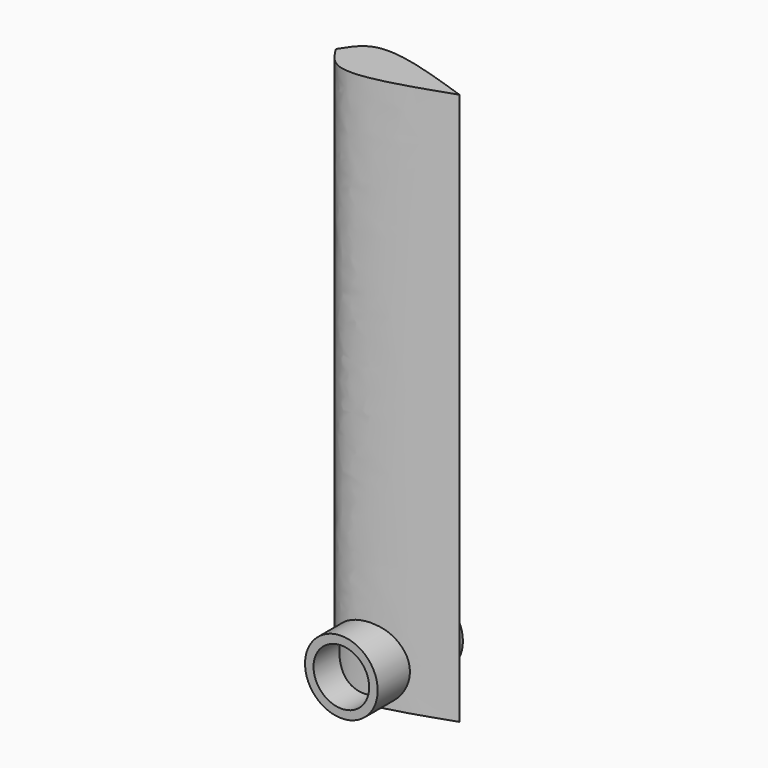
from build123d import *

# Parameters (mm, degrees)
F1_R          = 5.3696930424
F1_R_2        = 4.1148878779
F2_DEPTH      = 7.874
F2_DEPTH_BACK = 7.874
F4_DEPTH      = 81.6102


with BuildPart() as f2:
    # F1 (on Front) → F2 (new body, two sides)
    with BuildSketch(Plane.XZ) as f2_sk:
        Circle(F1_R)
        Circle(F1_R_2, mode=Mode.SUBTRACT)
    extrude(amount=F2_DEPTH)
    extrude(f2_sk.sketch, amount=-F2_DEPTH_BACK)


with BuildPart() as f4:
    # F3 (on offset) → F4 (new body)
    with BuildSketch(Plane.XY.offset(76.2)):
        with BuildLine():
            Line((-7.114358712, 0), (-6.977616905, -0.2325871756))
            add(Edge.make_bspline(
                [(-6.977616905, -0.2325871756), (-6.1716988864, -1.5199417707), (-3.873389941, -5.1912067376), (5.2439229328, -2.0437676665), (11.1641865224, 0)],
                knots=[0, 0, 0, 0, 0.350656961, 1, 1, 1, 1], degree=3))
            add(Edge.make_bspline(
                [(-6.977616905, 0.2325871756), (-6.1716988864, 1.5199417707), (-3.873389941, 5.1912067376), (5.2439229328, 2.0437676665), (11.1641865224, 0)],
                knots=[0, 0, 0, 0, 0.350656961, 1, 1, 1, 1], degree=3))
            Line((-6.977616905, 0.2325871756), (-7.114358712, 0))
        make_face()
    extrude(amount=-F4_DEPTH)


solid = Compound([f2.part, f4.part])
